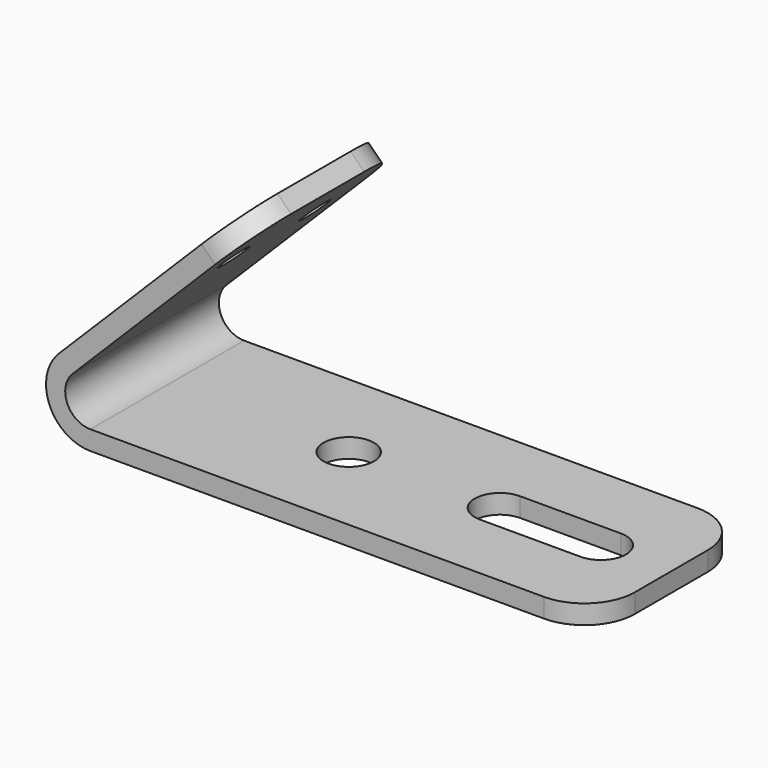
from build123d import *

# Parameters (mm, degrees)
F1_DEPTH = 9.525
F2_R     = 1.5
F3_DEPTH = 1.9
F4_R     = 2.5
F5_DEPTH = 1.9
F6_R     = 5


with BuildPart() as f1:
    # F0 (on Front) → F1 (new body, symmetric)
    with BuildSketch(Plane.XZ):
        with BuildLine():
            Line((-45.6214089087, -27.3469178617), (4.3785910913, -27.3469178617))
            Line((4.3785910913, -27.3469178617), (4.3785910913, -25.4469178617))
            Line((4.3785910913, -25.4469178617), (-45.6214089087, -25.4469178617))
            ThreePointArc((-45.6214089087, -25.4469178617), (-47.9311077399, -23.9036264426), (-47.3891758616, -21.1791509087))
            Line((-47.3891758616, -21.1791509087), (-29.711506332, -3.5014813791))
            Line((-29.711506332, -3.5014813791), (-31.0550092162, -2.1579784948))
            Line((-31.0550092162, -2.1579784948), (-48.7326787459, -19.8356480245))
            ThreePointArc((-48.7326787459, -19.8356480245), (-49.6864788517, -24.6307249641), (-45.6214089087, -27.3469178617))
        make_face()
    extrude(amount=F1_DEPTH, both=True)

    # F2 (on face) → F3 (cut, through all)
    with BuildSketch(Plane(origin=(-14.4485153607, 0, 14.4485153607), x_dir=(0, -1, 0), z_dir=(-0.7071067812, 0, 0.7071067812))):
        with Locations((-5.025, -30.9851288339)):
            Circle(F2_R)
        with Locations((5.025, -30.9851288339)):
            Circle(F2_R)
    extrude(amount=-F3_DEPTH, mode=Mode.SUBTRACT)

    # F4 (on face) → F5 (cut, through all)
    with BuildSketch(Plane.XY.offset(-25.4469178617)):
        with Locations((-27.6214089087, 0)):
            Circle(F4_R)
        with BuildLine():
            Line((-2.6214089087, 2.5), (-12.6214089087, 2.5))
            ThreePointArc((-12.6214089087, 2.5), (-15.1214089087, 0), (-12.6214089087, -2.5))
            Line((-12.6214089087, -2.5), (-2.6214089087, -2.5))
            ThreePointArc((-2.6214089087, -2.5), (-0.1214089087, 0), (-2.6214089087, 2.5))
        make_face()
    extrude(amount=-F5_DEPTH, mode=Mode.SUBTRACT)

    # F6
    f6_edges = [f1.edges().sort_by_distance(p)[0] for p in [
        (4.378591, -9.525, -26.396918),
        (4.378591, 9.525, -26.396918),
        (-30.383258, 9.525, -2.82973),
        (-30.383258, -9.525, -2.82973),
    ]]
    fillet(f6_edges, radius=F6_R)


solid = f1.part
